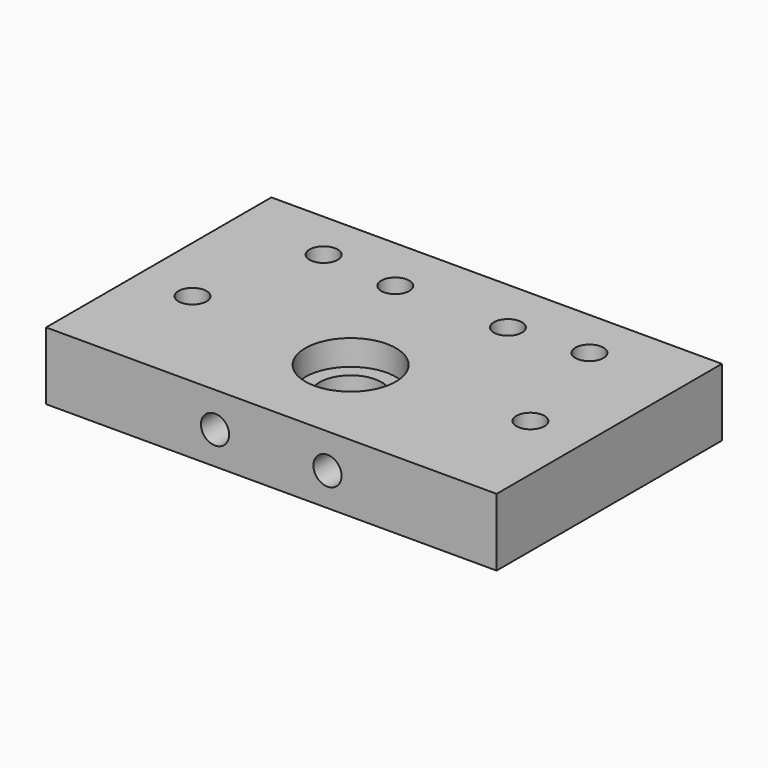
from build123d import *

# Parameters (mm, degrees)
SKETCH001_W     = 80
SKETCH001_H     = 50
SKETCH001_R     = 2.5
SKETCH001_R_2   = 5.5
PAD_DEPTH       = 12
SKETCH002_R     = 2.5
POCKET_DEPTH    = 11
SKETCH003_R     = 8.05
POCKET001_DEPTH = 4.5
SKETCH004_R     = 4.6
SKETCH004_R_2   = 4.624594
SKETCH004_R_3   = 4.583454
SKETCH004_R_4   = 4.624604
POCKET002_DEPTH = 1.55


with BuildPart() as part:
    # Sketch001 → Pad (new body)
    with BuildSketch(Plane(origin=(80, 0, -12), x_dir=(-1, 0, 0), z_dir=(0, 0, 1))):
        with Locations((40, 25)):
            Rectangle(SKETCH001_W, SKETCH001_H)
        with Locations((10, 30)):
            Circle(SKETCH001_R, mode=Mode.SUBTRACT)
        with Locations((30, 10)):
            Circle(SKETCH001_R, mode=Mode.SUBTRACT)
        with Locations((16.4, 8.9)):
            Circle(SKETCH001_R, mode=Mode.SUBTRACT)
        with Locations((50, 10)):
            Circle(SKETCH001_R, mode=Mode.SUBTRACT)
        with Locations((63.6, 8.9)):
            Circle(SKETCH001_R, mode=Mode.SUBTRACT)
        with Locations((70, 30)):
            Circle(SKETCH001_R, mode=Mode.SUBTRACT)
        with Locations((40, 32.4)):
            Circle(SKETCH001_R_2, mode=Mode.SUBTRACT)
    extrude(amount=PAD_DEPTH)

    # Sketch002 → Pocket (cut)
    with BuildSketch(Plane(origin=(80, -50, -12), x_dir=(1, 0, 0), z_dir=(0, -1, 0))):
        with Locations((-30.033846, 5.850095)):
            Circle(SKETCH002_R)
        with Locations((-50.003807, 5.788844)):
            Circle(SKETCH002_R)
    extrude(amount=-POCKET_DEPTH, mode=Mode.SUBTRACT)

    # Sketch003 → Pocket001 (cut)
    with BuildSketch(Plane(origin=(80, 0, 0), x_dir=(-1, 0, 0), z_dir=(0, 0, 1))):
        with Locations((40, 32.4)):
            Circle(SKETCH003_R)
    extrude(amount=-POCKET001_DEPTH, mode=Mode.SUBTRACT)

    # Sketch004 → Pocket002 (cut)
    with BuildSketch(Plane(origin=(80, 0, -12), x_dir=(-1, 0, 0), z_dir=(0, 0, -1))):
        with Locations((10, -30)):
            Circle(SKETCH004_R)
        with Locations((70, -30)):
            Circle(SKETCH004_R_2)
        with Locations((30, -10)):
            Circle(SKETCH004_R_3)
        with Locations((50, -10)):
            Circle(SKETCH004_R_4)
    extrude(amount=-POCKET002_DEPTH, mode=Mode.SUBTRACT)


solid = part.part
